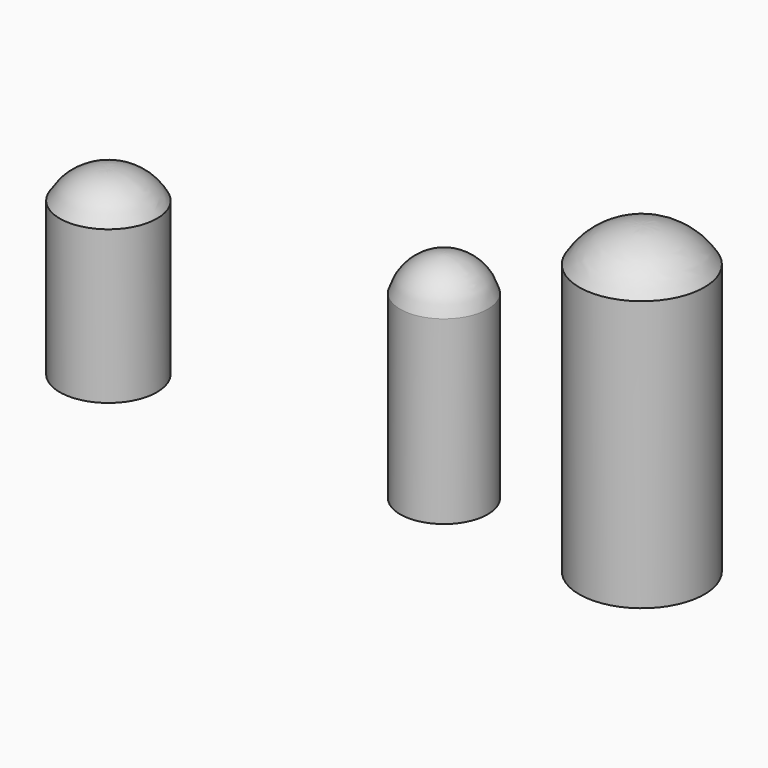
from build123d import *


with BuildPart() as f1:
    # F0 (on Front) → F1 (revolve)
    with BuildSketch(Plane.XZ):
        with BuildLine():
            Line((315, 0), (350, 0))
            Line((350, 0), (350, 1100))
            ThreePointArc((350, 1100), (204.797102, 1252.144928), (0, 1300))
            Line((0, 1300), (0, 35))
            ThreePointArc((0, 35), (159.013703, 31.123327), (315, 0))
        make_face()
    revolve(axis=Axis((0, 0, 667.5), (0, 0, -1)))


with BuildPart() as f3:
    # F2 (on Front) → F3 (revolve)
    with BuildSketch(Plane.XZ):
        with BuildLine():
            ThreePointArc((2414.678349, 35), (2555.816999, 26.609203), (2694.678349, 0))
            Line((2694.678349, 0), (2729.678349, 0))
            Line((2729.678349, 0), (2729.678349, 1300))
            ThreePointArc((2729.678349, 1300), (2614.904793, 1478.83532), (2414.678349, 1550))
            Line((2414.678349, 1550), (2414.678349, 35))
        make_face()
    revolve(axis=Axis((2414.678349, 0, 792.5), (0, 0, 1)))


with BuildPart() as f5:
    # F4 (on Front) → F5 (revolve)
    with BuildSketch(Plane.XZ):
        with BuildLine():
            ThreePointArc((3423.496485, 0), (3629.924472, 30.211011), (3838.496485, 35))
            Line((3838.496485, 35), (3838.496485, 2195))
            ThreePointArc((3838.496485, 2195), (3579.699915, 2130.833826), (3388.496485, 1945))
            Line((3388.496485, 1945), (3388.496485, 0))
            Line((3388.496485, 0), (3423.496485, 0))
        make_face()
    revolve(axis=Axis((3838.496485, 0, 1115), (0, 0, 1)))


solid = Compound([f1.part, f3.part, f5.part])
